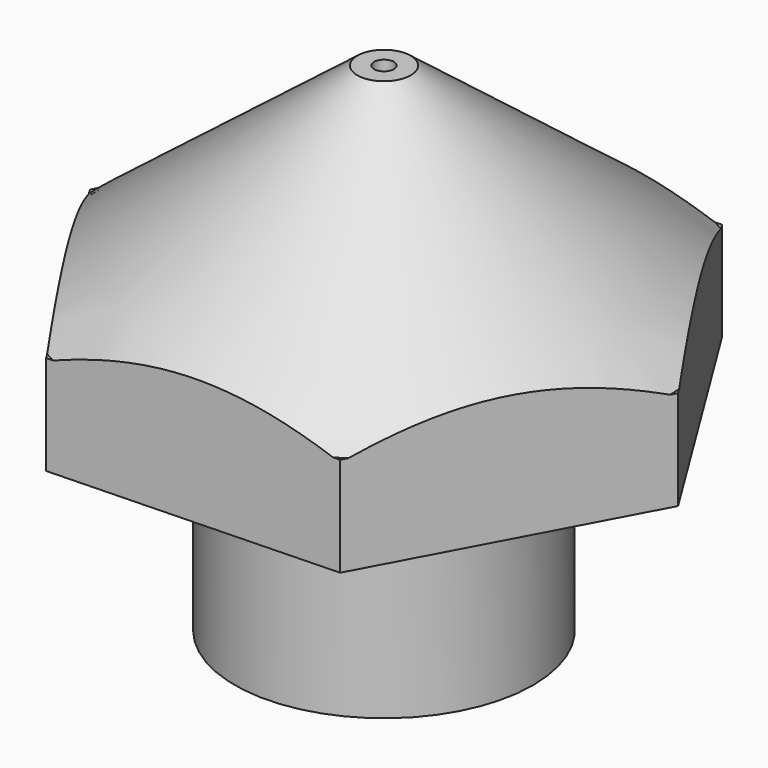
from build123d import *

# Parameters (mm, degrees)
F1_DEPTH = 10
F2_W     = 4.670898
F2_H     = 6.321549
F4_R     = 0.2
F5_DEPTH = 10.001


with BuildPart() as f1:
    # F0 (on Top) → F1 (new body)
    with BuildSketch(Plane.XY):
        Polygon((5.770634, 0.18198), (2.727718, 5.088505), (-3.042916, 4.906526), (-5.770634, -0.18198), (-2.727718, -5.088505), (3.042916, -4.906526), align=None)
    extrude(amount=F1_DEPTH)

    # F2 (on Front) → F3 (revolve, cut)
    with BuildSketch(Plane.XZ):
        with Locations((5.335449, 0.839225)):
            Rectangle(F2_W, F2_H)
        Polygon((0.4, 10.880456), (0.4, 10.104967), (5.705611, 6), (7.525738, 6), (7.525738, 10.880456), align=None)
        Polygon((0, 9), (0, -1.974234), (1.75, -1.974234), (1.75, 4.5), (1, 5), (1, 8), align=None)
    revolve(axis=Axis((0, 0, 3.313374), (0, 0, -1)), mode=Mode.SUBTRACT)

    # F4 (on face) → F5 (cut, through all)
    with BuildSketch(Plane.XY.offset(10)):
        Circle(F4_R)
    extrude(amount=-F5_DEPTH, mode=Mode.SUBTRACT)


solid = f1.part
